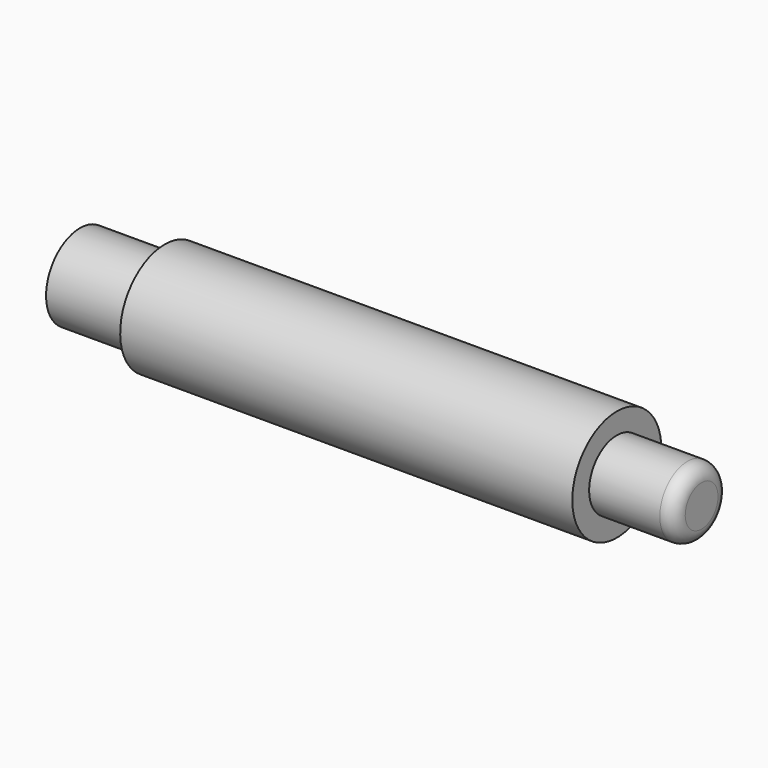
from build123d import *

# Parameters (mm, degrees)
F2_R = 5


with BuildPart() as f1:
    # F0 (on Front) → F1 (revolve)
    with BuildSketch(Plane.XZ):
        Polygon((-41.532524, 15), (-71.532524, 15), (-71.532524, 0), (148.467476, 0), (148.467476, 12.24852), (118.467476, 12.24852), (118.467476, 19.704141), (-41.532524, 19.704141), align=None)
    revolve(axis=Axis((7.899408, 0, 0), (1, 0, 0)))

    # F2
    f2_edges = [f1.edges().sort_by_distance(p)[0] for p in [
        (148.467476, 0, -12.24852),
    ]]
    fillet(f2_edges, radius=F2_R)


solid = f1.part
